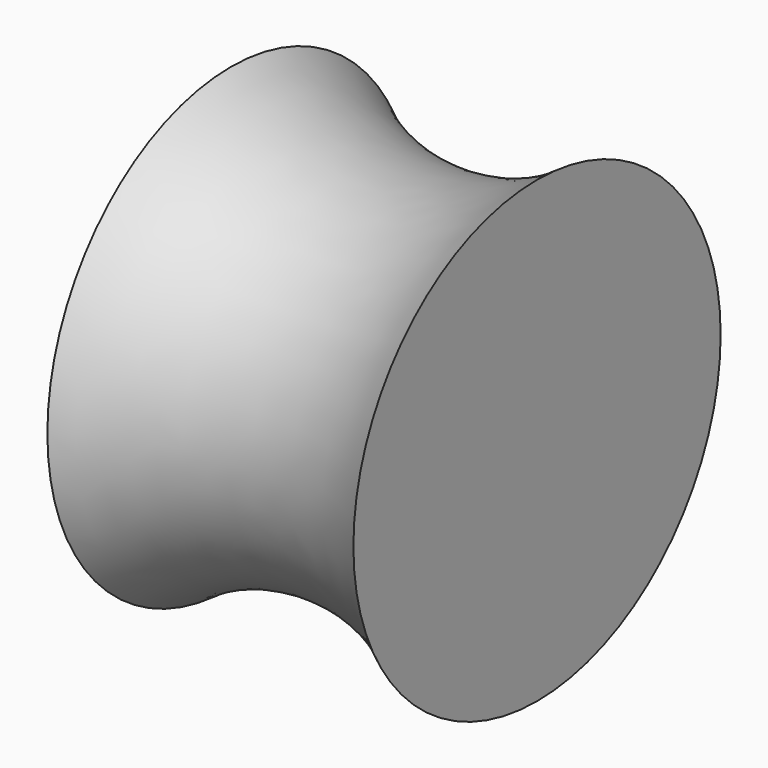
from build123d import *


with BuildPart() as f1:
    # F0 (on Top) → F1 (revolve)
    with BuildSketch(Plane.XY):
        with BuildLine():
            ThreePointArc((1.200729, -21.333477), (-3.879271, -23.015302), (-8.959271, -21.333477))
            Line((-8.959271, -21.333477), (-8.959271, -28.953477))
            Line((-8.959271, -28.953477), (1.200729, -28.953477))
            Line((1.200729, -28.953477), (1.200729, -21.333477))
        make_face()
    revolve(axis=Axis((-3.879271, -28.953477, 0), (1, 0, 0)))


solid = f1.part
